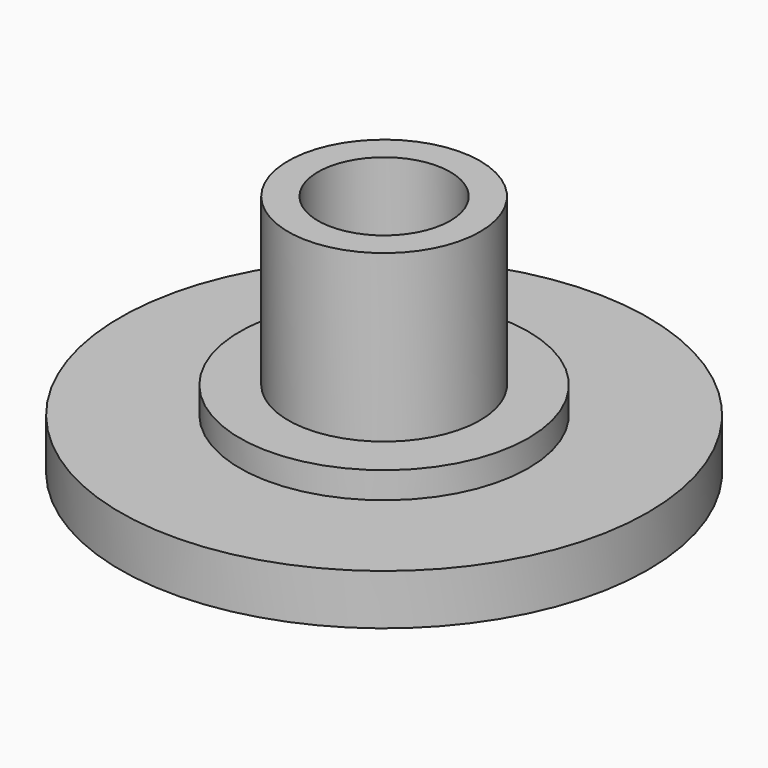
from build123d import *

# Parameters (mm, degrees)
F0_R     = 10.975
F1_DEPTH = 2.1
F2_R     = 6
F3_DEPTH = 1.1
F4_R     = 3.99
F5_DEPTH = 6.9
F6_R     = 2.75
F7_DEPTH = 6.5


with BuildPart() as f1:
    # F0 (on Top) → F1 (new body)
    with BuildSketch(Plane.XY):
        Circle(F0_R)
    extrude(amount=F1_DEPTH)


with BuildPart() as f3:
    # F2 (on face) → F3 (new body)
    with BuildSketch(Plane.XY.offset(2.1)):
        Circle(F2_R)
    extrude(amount=F3_DEPTH)

    # F4 (on face) → F5 (join)
    with BuildSketch(Plane.XY.offset(3.2)):
        Circle(F4_R)
    extrude(amount=F5_DEPTH)

    # F6 (on face) → F7 (cut)
    with BuildSketch(Plane.XY.offset(10.1)):
        Circle(F6_R)
    extrude(amount=-F7_DEPTH, mode=Mode.SUBTRACT)


solid = Compound([f1.part, f3.part])
